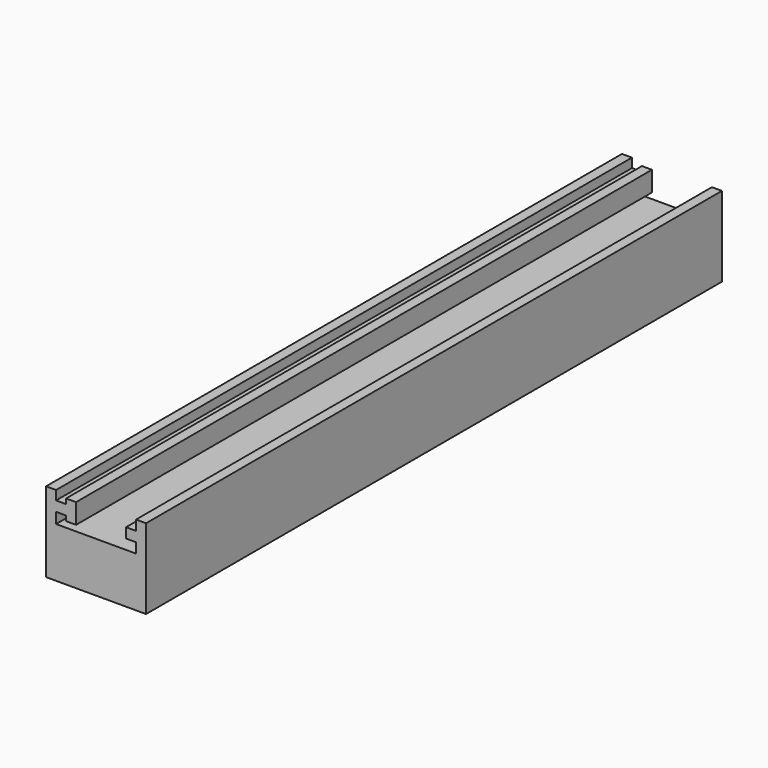
from build123d import *

# Parameters (mm, degrees)
F0_W     = 63.5
F0_H     = 457.2
F1_DEPTH = 50.8
F2_W     = 50.8
F2_H     = 19.05
F3_DEPTH = 457.2
F4_W     = 457.2
F4_H     = 6.35
F5_DEPTH = 6.35
F6_W     = 457.2
F6_H     = 3.175
F6_H_2   = 6.35
F7_DEPTH = 6.35
F8_W     = 457.2
F8_H     = 6.35
F9_DEPTH = 6.35


with BuildPart() as f1:
    # F0 (on Top) → F1 (new body)
    with BuildSketch(Plane.XY):
        with Locations((13.7360737771, 190.3568813264)):
            Rectangle(F0_W, F0_H)
    extrude(amount=F1_DEPTH)

    # F2 (on face) → F3 (cut)
    with BuildSketch(Plane.XZ.offset(38.2431186736)):
        with Locations((13.7360737771, 41.275)):
            Rectangle(F2_W, F2_H)
    extrude(amount=-F3_DEPTH, mode=Mode.SUBTRACT)

    # F4 (on face) → F5 (join)
    with BuildSketch(Plane.YZ.offset(-11.6639262229)):
        with Locations((190.3568813264, 41.787626493)):
            Rectangle(F4_W, F4_H)
    extrude(amount=F5_DEPTH)

    # F6 (on face) → F7 (join)
    with BuildSketch(Plane.YZ.offset(-5.3139262229)):
        with Locations((190.3568813264, 46.550126493)):
            Rectangle(F6_W, F6_H)
        with Locations((190.3568813264, 41.787626493)):
            Rectangle(F6_W, F6_H_2)
        with Locations((190.3568813264, 37.025126493)):
            Rectangle(F6_W, F6_H)
    extrude(amount=F7_DEPTH)

    # F8 (on face) → F9 (join)
    with BuildSketch(Plane(origin=(39.1360737771, 0, 0), x_dir=(0, -1, 0), z_dir=(-1, 0, 0))):
        with Locations((-190.3568813264, 41.275)):
            Rectangle(F8_W, F8_H)
    extrude(amount=F9_DEPTH)


solid = f1.part
